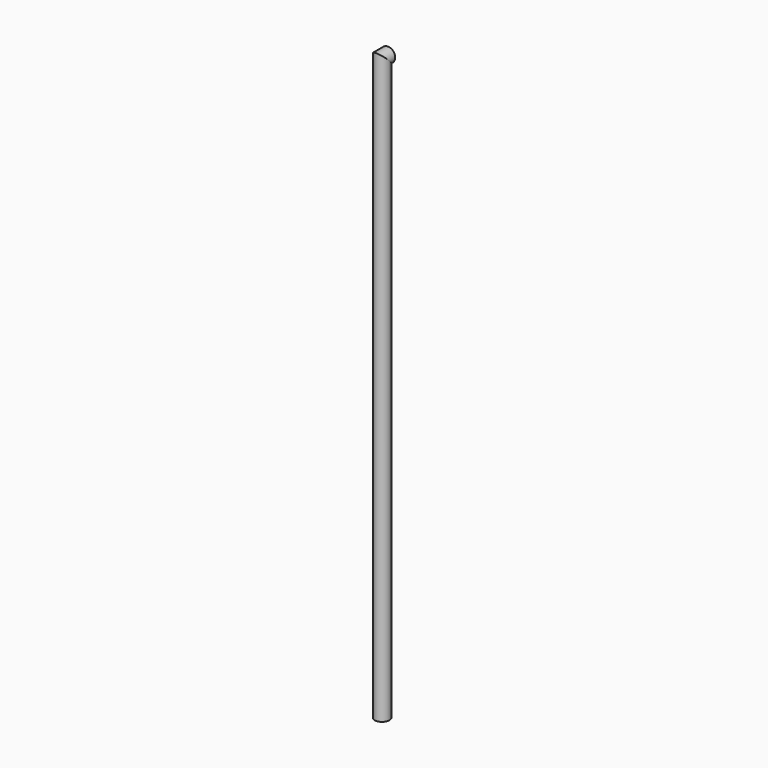
from build123d import *

# Parameters (mm, degrees)
F1_R = 25


with BuildPart() as f2:
    # F2: sweep along a path in F0
    with BuildLine(Plane.YZ) as f2_path:
        Line((0, 0), (0, 1999.999999992))
        Line((0, 1999.999999992), (25.4, 1999.999999992))
    # F1 (on Top) → F2 (sweep)
    with BuildSketch(Plane.XY):
        Circle(F1_R)
    sweep(path=f2_path.line, transition=Transition.RIGHT)


solid = f2.part
